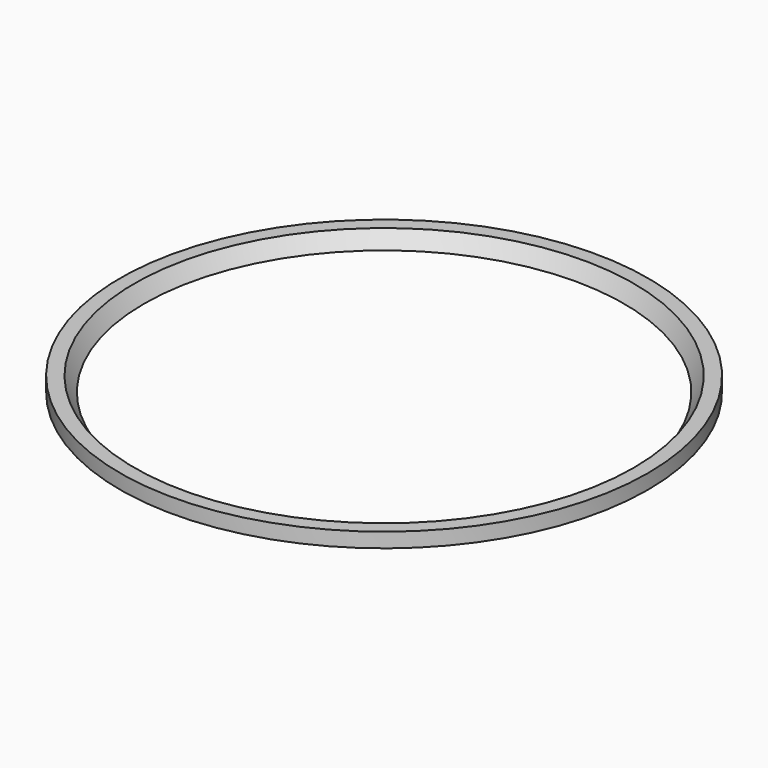
from build123d import *

# Parameters (mm, degrees)
SKETCH_R  = 18
PAD_DEPTH = 1


with BuildPart() as sphere:
    # Sphere → Sphere (revolve)
    with BuildSketch(Plane(origin=(0, 0, 11.5), x_dir=(1, 0, 0), z_dir=(0, -1, 0))):
        with BuildLine():
            ThreePointArc((0, -20), (20, 0), (0, 20))
            Line((0, 20), (0, -20))
        make_face()
    revolve(axis=Axis((0, 0, 11.5), (0, 0, 1)))


with BuildPart() as cut:
    # Sketch → Pad (new body)
    with BuildSketch(Plane.XY):
        Circle(SKETCH_R)
    extrude(amount=PAD_DEPTH)

    # Cut: cut Sphere
    add(sphere.part, mode=Mode.SUBTRACT)


solid = cut.part
